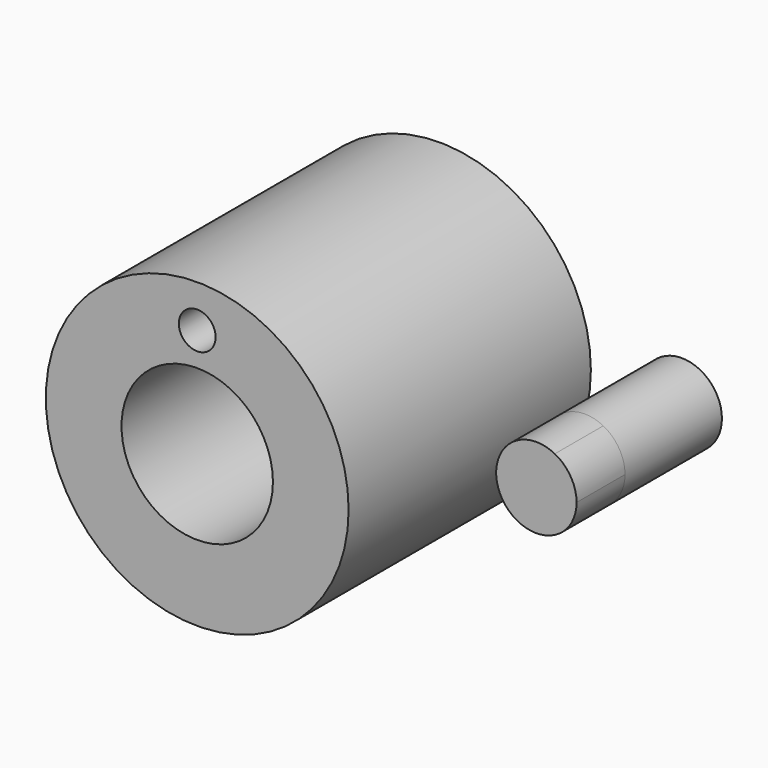
from build123d import *

# Parameters (mm, degrees)
F0_R      = 63.5
F0_R_2    = 31.75
F1_DEPTH  = 50.8
F2_R      = 7.717873
F3_DEPTH  = 50.8
F5_DEPTH  = 25.4
F5_FACE_R = 16.860184
F6_DEPTH  = 76.2
F7_DEPTH  = 25.4
F2_R_2    = 63.5
F2_R_3    = 31.75
F8_DEPTH  = 76.2
F9_W      = 38.1
F9_H      = 76.2
F10_DEPTH = 25.4


with BuildPart() as f1:
    # F0 (on Front) → F1 (new body)
    with BuildSketch(Plane.XZ):
        Circle(F0_R)
        Circle(F0_R_2, mode=Mode.SUBTRACT)
        Circle(F0_R)
        Circle(F0_R_2, mode=Mode.SUBTRACT)
    extrude(amount=F1_DEPTH)

    # F2 (on face) → F3 (join)
    with BuildSketch(Plane.XZ.offset(50.8)):
        with Locations((0, 45.640536)):
            Circle(F2_R)
    extrude(amount=-F3_DEPTH)

    # F2 (on face) → F8 (join)
    with BuildSketch(Plane.XZ.offset(50.8)):
        Circle(F2_R_2)
        Circle(F2_R_3, mode=Mode.SUBTRACT)
        with Locations((0, 45.640536)):
            Circle(F2_R, mode=Mode.SUBTRACT)
    extrude(amount=F8_DEPTH)


with BuildPart() as f5:
    # F4 (on face) → F5 (new body)
    with BuildSketch(Plane.XZ.offset(50.8)):
        with BuildLine():
            ThreePointArc((109.339723, -14.978735), (116.000677, -8.768485), (118.460184, 0))
            ThreePointArc((118.460184, 0), (116.000677, 8.768485), (109.339723, 14.978735))
            ThreePointArc((109.339723, 14.978735), (84.739816, 0), (109.339723, -14.978735))
        make_face()
    extrude(amount=F5_DEPTH)

    # F5_face (on face) → F6 (join)
    with BuildSketch(Plane(origin=(101.6, -76.2, 0), x_dir=(1, 0, 0), z_dir=(0, -1, 0))):
        Circle(F5_FACE_R)
    extrude(amount=-F6_DEPTH)

    # F5_face (on face) → F7 (join)
    with BuildSketch(Plane(origin=(101.6, -76.2, 0), x_dir=(1, 0, 0), z_dir=(0, -1, 0))):
        Circle(F5_FACE_R)
    extrude(amount=-F7_DEPTH)


with BuildPart() as f10:
    # F9 (on Front) → F10 (new body)
    with BuildSketch(Plane.XZ):
        with Locations((-108.591778, -68.215)):
            Rectangle(F9_W, F9_H)
    extrude(amount=F10_DEPTH)


solid = Compound([f1.part, f5.part, f10.part])
